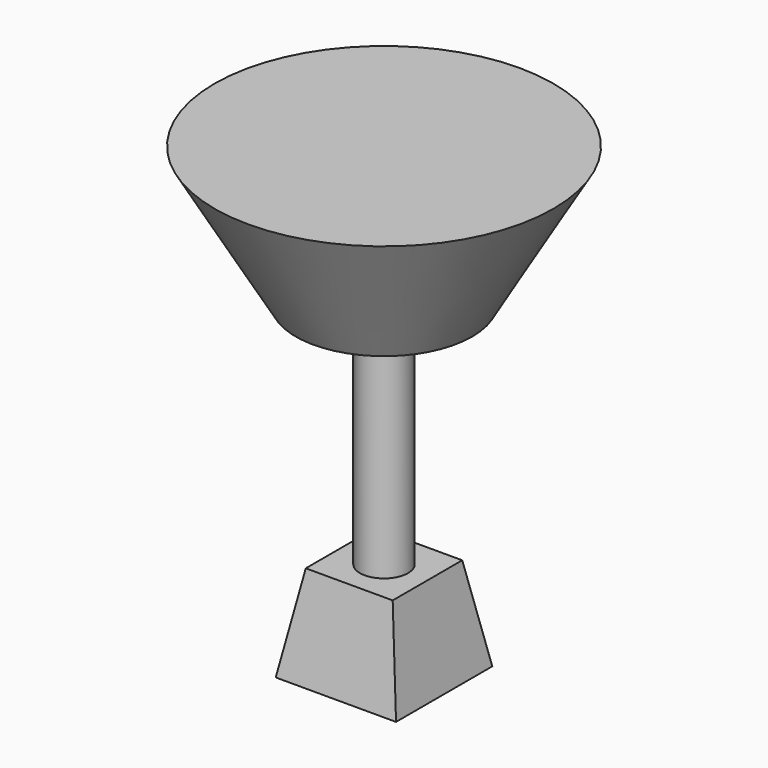
from build123d import *

# Parameters (mm, degrees)
F0_W     = 24
F0_H     = 24
F1_DEPTH = 18.9
F1_TAPER = 10
F2_R     = 4.7910842269
F3_DEPTH = 45.7


with BuildPart() as f1:
    # F0 (on Top) → F1 (new body)
    with BuildSketch(Plane.XY):
        Rectangle(F0_W, F0_H)
    extrude(amount=F1_DEPTH, taper=F1_TAPER)

    # F2 (on face) → F3 (join)
    with BuildSketch(Plane.XY.offset(18.9)):
        Circle(F2_R)
    extrude(amount=F3_DEPTH)

    # F4 (on Front) → F5 (revolve)
    with BuildSketch(Plane.XZ):
        Polygon((0, 92.3125015855), (0, 64.6), (17.6069048751, 64.6), (33.799842, 92.3125015855), align=None)
    revolve(axis=Axis((0, 0, 78.4562507927), (0, 0, -1)))


solid = f1.part
